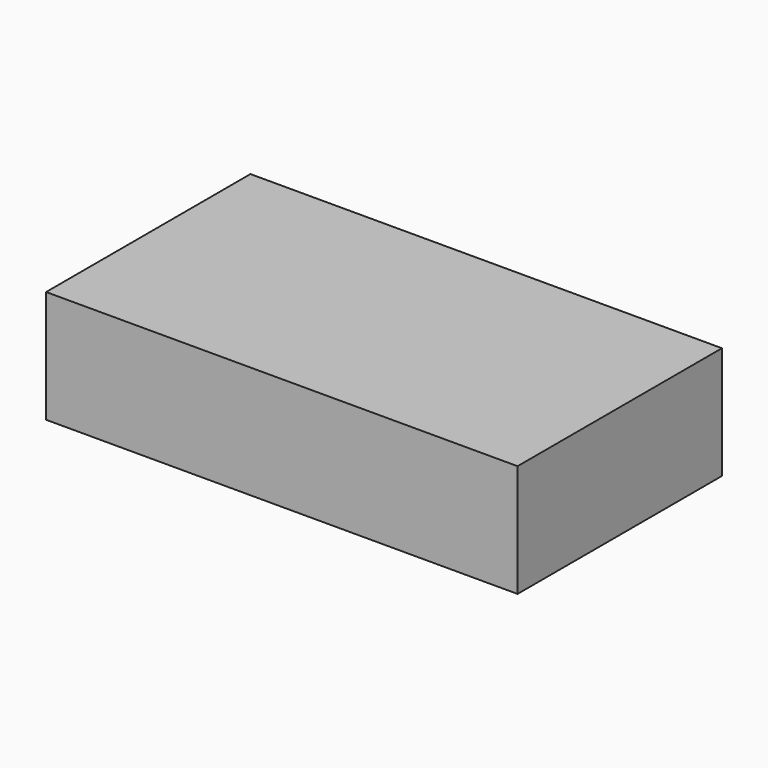
from build123d import *

# Parameters (mm, degrees)
BOX_W     = 89.7
BOX_H     = 48.6
BOX_DEPTH = 21.4


with BuildPart() as part:
    # Box → Box (new body)
    with BuildSketch(Plane.XY):
        with Locations((44.85, 24.3)):
            Rectangle(BOX_W, BOX_H)
    extrude(amount=BOX_DEPTH)


solid = part.part
